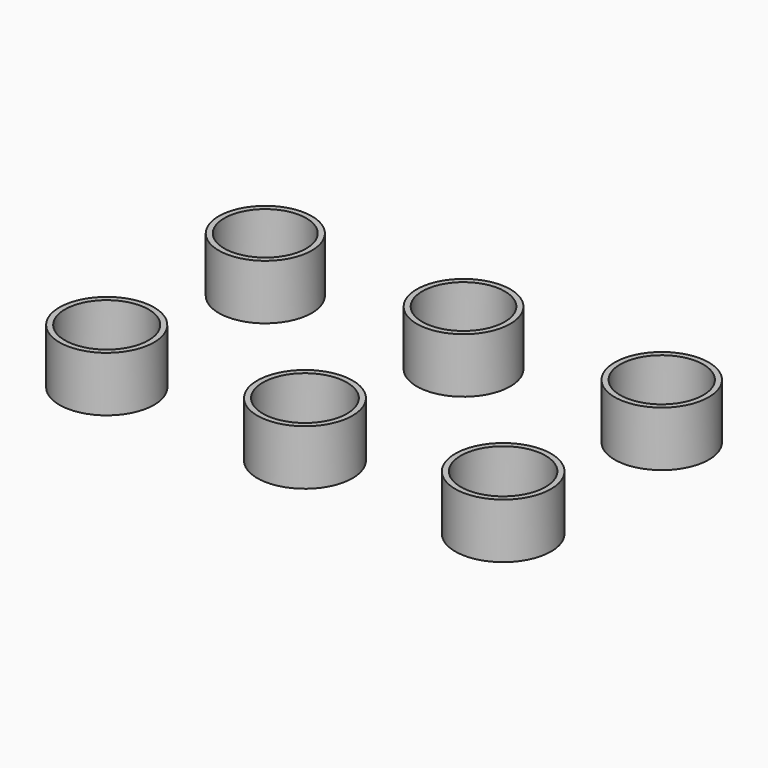
from build123d import *

# Parameters (mm, degrees)
F0_R     = 8.45
F0_R_2   = 7.45
F0_R_3   = 8.5
F0_R_4   = 7.5
F0_R_5   = 8.55
F0_R_6   = 7.55
F0_R_7   = 8.6
F0_R_8   = 7.6
F0_R_9   = 8.65
F0_R_10  = 7.65
F0_R_11  = 8.7
F0_R_12  = 7.7
F1_DEPTH = 10


with BuildPart() as f1:
    # F0 (on Top) → F1 (new body)
    with BuildSketch(Plane.XY):
        with Locations((-36, 36)):
            Circle(F0_R)
        with Locations((-36, 36)):
            Circle(F0_R_2, mode=Mode.SUBTRACT)
        with Locations((0, 36)):
            Circle(F0_R_3)
        with Locations((0, 36)):
            Circle(F0_R_4, mode=Mode.SUBTRACT)
        with Locations((36, 36)):
            Circle(F0_R_5)
        with Locations((36, 36)):
            Circle(F0_R_6, mode=Mode.SUBTRACT)
        with Locations((-36, 0)):
            Circle(F0_R_7)
        with Locations((-36, 0)):
            Circle(F0_R_8, mode=Mode.SUBTRACT)
        Circle(F0_R_9)
        Circle(F0_R_10, mode=Mode.SUBTRACT)
        with Locations((36, 0)):
            Circle(F0_R_11)
        with Locations((36, 0)):
            Circle(F0_R_12, mode=Mode.SUBTRACT)
    extrude(amount=F1_DEPTH)


solid = f1.part
